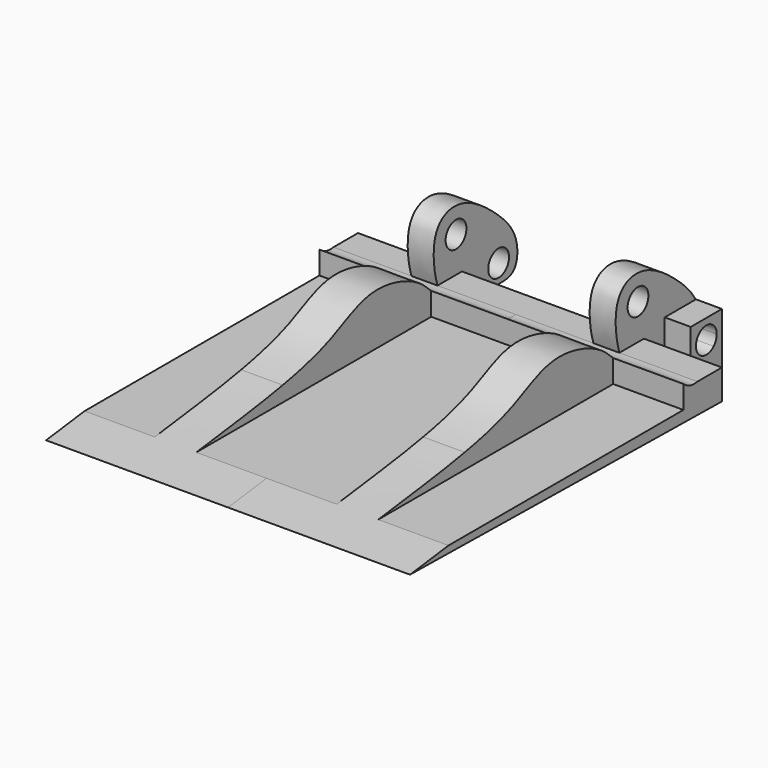
from build123d import *

# Parameters (mm, degrees)
F1_W     = 3.81
F1_H     = 2.54
F3_DEPTH = 12.7
F4_DEPTH = 10.16
F2_R     = 1.27
F5_DEPTH = 10.16
F6_DEPTH = 7.62
F7_DEPTH = 17.78
F9_START = 3.81
F9_DEPTH = 10.4394


with BuildPart() as f3:
    # F1 (on Right) → F3 (new body, symmetric)
    with BuildSketch(Plane.YZ):
        with Locations((-47.2374496603, 1.27)):
            Rectangle(F1_W, F1_H)
        with BuildLine():
            Line((-49.1424496603, 6.35), (-49.1424496603, 2.54))
            Line((-49.1424496603, 2.54), (-48.1354752724, 3.5469743879))
            ThreePointArc((-48.1354752724, 3.5469743879), (-48.5074496603, 4.445), (-48.1354752724, 5.3430256121))
            Line((-48.1354752724, 5.3430256121), (-49.1424496603, 6.35))
        make_face()
        with BuildLine():
            Line((-48.1354752724, 3.5469743879), (-49.1424496603, 2.54))
            Line((-49.1424496603, 2.54), (-45.3324496603, 2.54))
            Line((-45.3324496603, 2.54), (-46.3394240482, 3.5469743879))
            ThreePointArc((-46.3394240482, 3.5469743879), (-47.2374496603, 3.175), (-48.1354752724, 3.5469743879))
        make_face()
        with BuildLine():
            Line((-45.3324496603, 6.35), (-49.1424496603, 6.35))
            Line((-49.1424496603, 6.35), (-48.1354752724, 5.3430256121))
            ThreePointArc((-48.1354752724, 5.3430256121), (-47.2374496603, 5.715), (-46.3394240482, 5.3430256121))
            Line((-46.3394240482, 5.3430256121), (-45.3324496603, 6.35))
        make_face()
        with BuildLine():
            Line((-46.3394240482, 3.5469743879), (-45.3324496603, 2.54))
            Line((-45.3324496603, 2.54), (-45.3324496603, 6.35))
            Line((-45.3324496603, 6.35), (-46.3394240482, 5.3430256121))
            ThreePointArc((-46.3394240482, 5.3430256121), (-46.064122654, 4.9310079591), (-45.9674496603, 4.445))
            ThreePointArc((-45.9674496603, 4.445), (-46.064122654, 3.9589920409), (-46.3394240482, 3.5469743879))
        make_face()
    extrude(amount=F3_DEPTH, both=True)

    # F1 (on Right) → F4 (cut, symmetric)
    with BuildSketch(Plane.YZ):
        with Locations((-47.2374496603, 1.27)):
            Rectangle(F1_W, F1_H)
        with BuildLine():
            Line((-49.1424496603, 6.35), (-49.1424496603, 2.54))
            Line((-49.1424496603, 2.54), (-48.1354752724, 3.5469743879))
            ThreePointArc((-48.1354752724, 3.5469743879), (-48.5074496603, 4.445), (-48.1354752724, 5.3430256121))
            Line((-48.1354752724, 5.3430256121), (-49.1424496603, 6.35))
        make_face()
        with BuildLine():
            Line((-48.1354752724, 3.5469743879), (-49.1424496603, 2.54))
            Line((-49.1424496603, 2.54), (-45.3324496603, 2.54))
            Line((-45.3324496603, 2.54), (-46.3394240482, 3.5469743879))
            ThreePointArc((-46.3394240482, 3.5469743879), (-47.2374496603, 3.175), (-48.1354752724, 3.5469743879))
        make_face()
        with BuildLine():
            Line((-45.3324496603, 6.35), (-49.1424496603, 6.35))
            Line((-49.1424496603, 6.35), (-48.1354752724, 5.3430256121))
            ThreePointArc((-48.1354752724, 5.3430256121), (-47.2374496603, 5.715), (-46.3394240482, 5.3430256121))
            Line((-46.3394240482, 5.3430256121), (-45.3324496603, 6.35))
        make_face()
        with BuildLine():
            Line((-46.3394240482, 3.5469743879), (-45.3324496603, 2.54))
            Line((-45.3324496603, 2.54), (-45.3324496603, 6.35))
            Line((-45.3324496603, 6.35), (-46.3394240482, 5.3430256121))
            ThreePointArc((-46.3394240482, 5.3430256121), (-46.064122654, 4.9310079591), (-45.9674496603, 4.445))
            ThreePointArc((-45.9674496603, 4.445), (-46.064122654, 3.9589920409), (-46.3394240482, 3.5469743879))
        make_face()
    extrude(amount=F4_DEPTH, both=True, mode=Mode.SUBTRACT)


with BuildPart() as f5:
    # F2 (on Right) → F5 (new body, symmetric)
    with BuildSketch(Plane.YZ):
        with BuildLine():
            Line((-51.6833715379, 5.5482930539), (-54.6768695379, 5.5482930539))
            add(Edge.make_bspline(
                [(-54.6768695379, 5.5482930539), (-54.3915849576, 4.6574055122), (-53.5246621943, 2.9529028222), (-52.3443972456, 2.6541378058), (-51.6833715379, 2.6232464679)],
                knots=[0.822122129, 0.822122129, 0.822122129, 0.822122129, 0.8851934805, 0.9584278393, 0.9584278393, 0.9584278393, 0.9584278393], degree=3))
            Line((-51.6833715379, 2.6232464679), (-51.6833715379, 5.5482930539))
        make_face()
        with BuildLine():
            add(Edge.make_bspline(
                [(-51.6833715379, 2.6232464679), (-51.3081341857, 2.6057107144), (-50.9242310024, 2.6299462837), (-50.543288393, 2.645436826)],
                knots=[0.9584278393, 0.9584278393, 0.9584278393, 0.9584278393, 1, 1, 1, 1], degree=3))
            add(Edge.make_bspline(
                [(-50.543288393, 2.645436826), (-49.4876988386, 2.6883610202), (-47.5947454897, 2.6439654453), (-44.9180021547, 2.6052170425), (-44.7205099858, 6.0794620713), (-47.5112178886, 9.0125026412), (-51.8246091603, 12.1799581277), (-55.4751097537, 10.8457300356), (-55.1626005066, 7.0651351776), (-54.6768695379, 5.5482930539)],
                knots=[0, 0, 0, 0, 0.1151961935, 0.2111241015, 0.3165453238, 0.4496249689, 0.5981989674, 0.7147356428, 0.822122129, 0.822122129, 0.822122129, 0.822122129], degree=3))
            Line((-54.6768695379, 5.5482930539), (-51.6833715379, 5.5482930539))
            Line((-51.6833715379, 5.5482930539), (-51.6833715379, 2.6232464679))
        make_face()
        with Locations((-47.2040674602, 4.4497677793)):
            Circle(F2_R, mode=Mode.SUBTRACT)
        with Locations((-52.4090089492, 9.0273264497)):
            Circle(F2_R, mode=Mode.SUBTRACT)
    extrude(amount=F5_DEPTH, both=True)

    # F2 (on Right) → F6 (cut, symmetric)
    with BuildSketch(Plane.YZ):
        with BuildLine():
            add(Edge.make_bspline(
                [(-51.6833715379, 2.6232464679), (-51.3081341857, 2.6057107144), (-50.9242310024, 2.6299462837), (-50.543288393, 2.645436826)],
                knots=[0.9584278393, 0.9584278393, 0.9584278393, 0.9584278393, 1, 1, 1, 1], degree=3))
            add(Edge.make_bspline(
                [(-50.543288393, 2.645436826), (-49.4876988386, 2.6883610202), (-47.5947454897, 2.6439654453), (-44.9180021547, 2.6052170425), (-44.7205099858, 6.0794620713), (-47.5112178886, 9.0125026412), (-51.8246091603, 12.1799581277), (-55.4751097537, 10.8457300356), (-55.1626005066, 7.0651351776), (-54.6768695379, 5.5482930539)],
                knots=[0, 0, 0, 0, 0.1151961935, 0.2111241015, 0.3165453238, 0.4496249689, 0.5981989674, 0.7147356428, 0.822122129, 0.822122129, 0.822122129, 0.822122129], degree=3))
            Line((-54.6768695379, 5.5482930539), (-51.6833715379, 5.5482930539))
            Line((-51.6833715379, 5.5482930539), (-51.6833715379, 2.6232464679))
        make_face()
        with Locations((-47.2040674602, 4.4497677793)):
            Circle(F2_R, mode=Mode.SUBTRACT)
        with Locations((-52.4090089492, 9.0273264497)):
            Circle(F2_R, mode=Mode.SUBTRACT)
        with BuildLine():
            Line((-51.6833715379, 5.5482930539), (-54.6768695379, 5.5482930539))
            add(Edge.make_bspline(
                [(-54.6768695379, 5.5482930539), (-54.3915849576, 4.6574055122), (-53.5246621943, 2.9529028222), (-52.3443972456, 2.6541378058), (-51.6833715379, 2.6232464679)],
                knots=[0.822122129, 0.822122129, 0.822122129, 0.822122129, 0.8851934805, 0.9584278393, 0.9584278393, 0.9584278393, 0.9584278393], degree=3))
            Line((-51.6833715379, 2.6232464679), (-51.6833715379, 5.5482930539))
        make_face()
    extrude(amount=F6_DEPTH, both=True, mode=Mode.SUBTRACT)


with BuildPart() as f7:
    # F2 (on Right) → F7 (new body, symmetric)
    with BuildSketch(Plane.YZ):
        with BuildLine():
            add(Edge.make_bspline(
                [(-54.6768695379, 5.5482930539), (-54.3915849576, 4.6574055122), (-53.5246621943, 2.9529028222), (-52.3443972456, 2.6541378058), (-51.6833715379, 2.6232464679)],
                knots=[0.822122129, 0.822122129, 0.822122129, 0.822122129, 0.8851934805, 0.9584278393, 0.9584278393, 0.9584278393, 0.9584278393], degree=3))
            add(Edge.make_bspline(
                [(-74.5284184813, 5.3053833544), (-72.6839577857, 5.6501889422), (-68.529927335, 6.5563732559), (-63.7877291687, 9.7443122336), (-57.0985303366, 7.5373557704), (-56.0633248984, 5.3304229745), (-54.6768695379, 5.5482930539)],
                knots=[0.3012814196, 0.3012814196, 0.3012814196, 0.3012814196, 0.4896167352, 0.6714430231, 0.862890923, 1, 1, 1, 1], degree=3))
            Line((-74.5284184813, 5.3053833544), (-74.7774545518, 2.9775301705))
            Line((-74.7774545518, 2.9775301705), (-51.6833715379, 2.6232464679))
        make_face()
        with BuildLine():
            Line((-74.7774545518, 2.9775301705), (-74.5284184813, 5.3053833544))
            add(Edge.make_bspline(
                [(-89.7788890489, 3.207665472), (-79.741027527, 4.4997082878), (-77.4790161156, 4.7537952648), (-74.5284184813, 5.3053833544)],
                knots=[0, 0, 0, 0, 0.3012814196, 0.3012814196, 0.3012814196, 0.3012814196], degree=3))
            Line((-89.7788890489, 3.207665472), (-74.7774545518, 2.9775301705))
        make_face()
        with BuildLine():
            Line((-51.6833715379, 5.5482930539), (-54.6768695379, 5.5482930539))
            add(Edge.make_bspline(
                [(-54.6768695379, 5.5482930539), (-54.3915849576, 4.6574055122), (-53.5246621943, 2.9529028222), (-52.3443972456, 2.6541378058), (-51.6833715379, 2.6232464679)],
                knots=[0.822122129, 0.822122129, 0.822122129, 0.822122129, 0.8851934805, 0.9584278393, 0.9584278393, 0.9584278393, 0.9584278393], degree=3))
            Line((-51.6833715379, 2.6232464679), (-51.6833715379, 5.5482930539))
        make_face()
    extrude(amount=F7_DEPTH, both=True)

    # F8 (on Top) → F9 (cut)
    with BuildSketch(Plane.XY.offset(F9_START)):
        Polygon((-10.922, -82.308575511), (-10.922, -75.0895197612), (-17.78, -89.7852340469), (-10.922, -89.7852340469), align=None)
        Polygon((-10.922, -66.5027532029), (-11.915345356, -64.3852340469), (-17.78, -64.3852340469), (-17.78, -89.7852340469), (-10.922, -75.0895197612), align=None)
        Polygon((-11.915345356, -64.3852340469), (-15.6653562861, -56.3913173974), (-17.78, -56.3913173974), (-17.78, -64.3852340469), align=None)
        Polygon((-10.922, -64.3852340469), (-10.922, -56.3913173974), (-15.6653562861, -56.3913173974), (-11.915345356, -64.3852340469), align=None)
        Polygon((-5.9266666667, -64.3852340469), (-2.1961722302, -56.3913173974), (-6.858, -56.3913173974), (-6.858, -64.3852340469), align=None)
        Polygon((0, -64.3852340469), (0, -56.3913173974), (-2.1961722302, -56.3913173974), (-5.9266666667, -64.3852340469), align=None)
        Polygon((0, -89.7852340469), (0, -64.3852340469), (-5.9266666667, -64.3852340469), (-6.858, -66.3809483326), (-6.858, -75.166001889), align=None)
        Polygon((-6.858, -66.3809483326), (-5.9266666667, -64.3852340469), (-6.858, -64.3852340469), align=None)
        Polygon((-10.922, -66.5027532029), (-10.922, -64.3852340469), (-11.915345356, -64.3852340469), align=None)
        Polygon((-6.858, -89.7852340469), (0, -89.7852340469), (-6.858, -75.166001889), (-6.858, -82.308575511), align=None)
        Polygon((6.858, -75.0895197612), (0, -89.7852340469), (6.858, -89.7852340469), (6.858, -81.4059525728), align=None)
        Polygon((5.9266666667, -64.3852340469), (0, -64.3852340469), (0, -89.7852340469), (6.858, -75.0895197612), (6.858, -66.3809483326), align=None)
        Polygon((2.1961722302, -56.3913173974), (0, -56.3913173974), (0, -64.3852340469), (5.9266666667, -64.3852340469), align=None)
        Polygon((6.858, -56.3913173974), (2.1961722302, -56.3913173974), (5.9266666667, -64.3852340469), (6.858, -64.3852340469), align=None)
        Polygon((15.5838277698, -56.3913173974), (10.922, -56.3913173974), (10.922, -64.3852340469), (11.8533333333, -64.3852340469), align=None)
        Polygon((17.78, -64.3852340469), (17.78, -56.3913173974), (15.5838277698, -56.3913173974), (11.8533333333, -64.3852340469), align=None)
        Polygon((17.78, -89.7852340469), (17.78, -64.3852340469), (11.8533333333, -64.3852340469), (10.922, -66.3809483326), (10.922, -75.0895197612), align=None)
        Polygon((17.78, -89.7852340469), (10.922, -75.0895197612), (10.922, -81.4059525728), (10.922, -89.7852340469), align=None)
        Polygon((11.8533333333, -64.3852340469), (10.922, -64.3852340469), (10.922, -66.3809483326), align=None)
        Polygon((6.858, -64.3852340469), (5.9266666667, -64.3852340469), (6.858, -66.3809483326), align=None)
    extrude(amount=F9_DEPTH, mode=Mode.SUBTRACT)


solid = Compound([f3.part, f5.part, f7.part])
